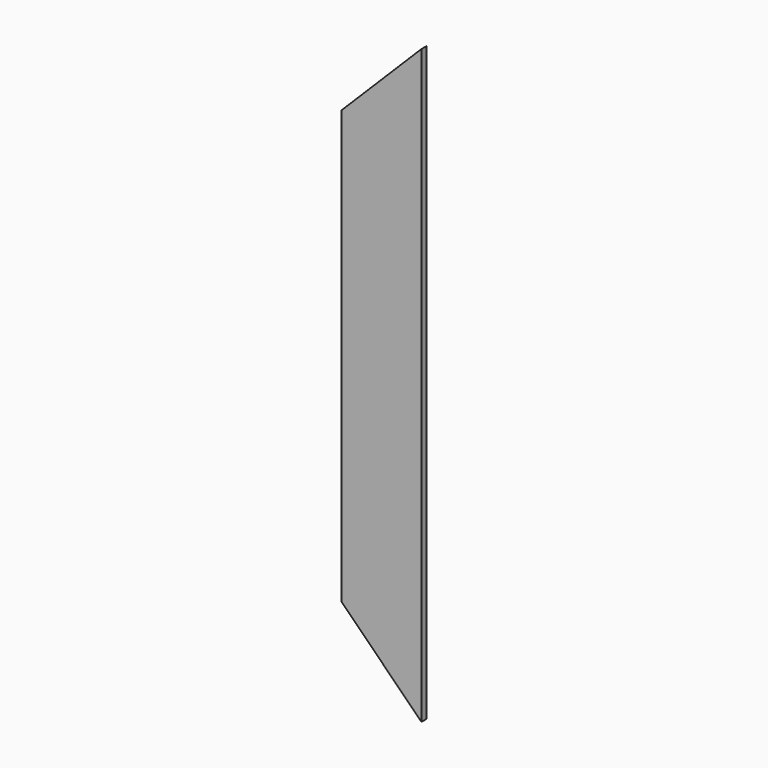
from build123d import *

# Parameters (mm, degrees)
F1_DEPTH = 556
F3_DEPTH = 75.001
F5_DEPTH = 75.001


with BuildPart() as f1:
    # F0 (on Top) → F1 (new body)
    with BuildSketch(Plane.XY):
        Polygon((0, 75), (0, 0), (75, 0), (75, 6), (6, 6), (6, 75), align=None)
    extrude(amount=F1_DEPTH)

    # F2 (on Front) → F3 (cut, through all)
    with BuildSketch(Plane.XZ):
        Polygon((0, 75), (0, 0), (75, 0), align=None)
    extrude(amount=-F3_DEPTH, mode=Mode.SUBTRACT)

    # F4 (on Front) → F5 (cut, through all)
    with BuildSketch(Plane.XZ):
        Polygon((0, 481), (75, 556), (0, 556), align=None)
    extrude(amount=-F5_DEPTH, mode=Mode.SUBTRACT)


solid = f1.part
